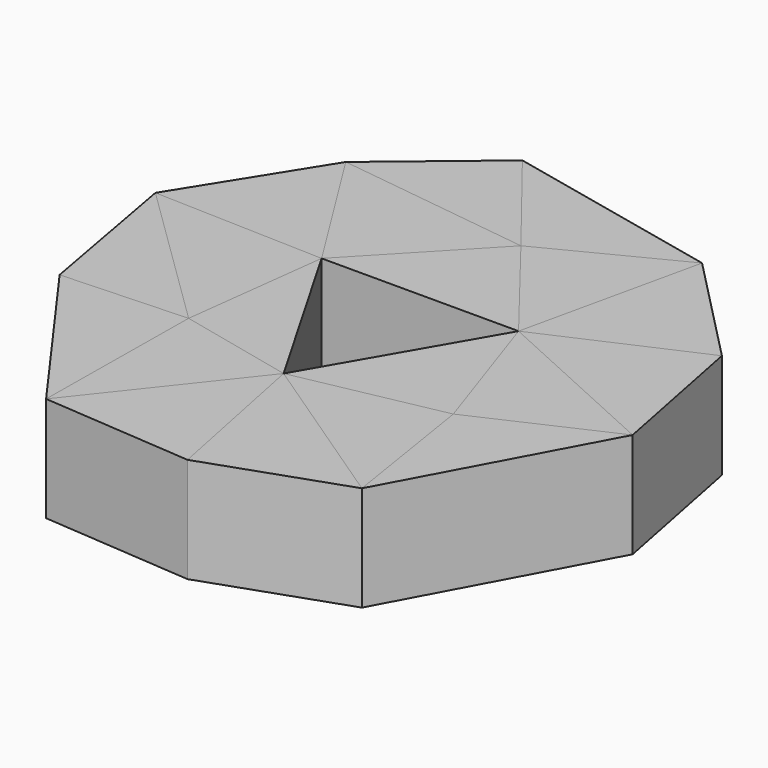
from build123d import *

# Parameters (mm, degrees)
F1_DEPTH = 25.4
F2_DEPTH = 25.4
F3_DEPTH = 25.4


with BuildPart() as f1:
    # F0 (on Top) → F1 (new body)
    with BuildSketch(Plane.XY):
        Polygon((-139.548727, -1.749934), (-98.295171, -3.080259), (-119.355322, 30.558523), align=None)
        Polygon((-102.588175, -37.905204), (-74.482671, -44.324719), (-98.295171, -3.080259), align=None)
        Polygon((-132.721425, -39.233236), (-103.023194, -80.44798), (-102.588175, -37.905204), align=None)
        Polygon((-66.603505, -83.22223), (-74.482671, -44.324719), (-103.023194, -80.44798), align=None)
        Polygon((-39.103412, -37.254637), (-74.482671, -44.324719), (-33.617825, -71.746143), align=None)
        Polygon((-7.314813, -22.789485), (-50.670171, -3.080259), (-39.103412, -37.254637), align=None)
        Polygon((-41.006373, 40.30653), (-50.670171, -3.080259), (-14.391694, 13.043573), align=None)
        Polygon((-93.722842, 51.894216), (-72.12382, 24.449037), (-41.006373, 40.30653), align=None)
        Polygon((-72.12382, 24.449037), (-98.295171, -3.080259), (-50.670171, -3.080259), align=None)
    extrude(amount=F1_DEPTH)


with BuildPart() as f2:
    # F0 (on Top) → F2 (new body)
    with BuildSketch(Plane.XY):
        Polygon((-93.722842, 51.894216), (-119.355322, 30.558523), (-72.12382, 24.449037), align=None)
        Polygon((-72.12382, 24.449037), (-50.670171, -3.080259), (-41.006373, 40.30653), align=None)
        Polygon((-14.391694, 13.043573), (-50.670171, -3.080259), (-7.314813, -22.789485), align=None)
        Polygon((-39.103412, -37.254637), (-33.617825, -71.746143), (-7.314813, -22.789485), align=None)
        Polygon((-50.670171, -3.080259), (-74.482671, -44.324719), (-39.103412, -37.254637), align=None)
        Polygon((-33.617825, -71.746143), (-74.482671, -44.324719), (-66.603505, -83.22223), align=None)
        Polygon((-103.023194, -80.44798), (-74.482671, -44.324719), (-102.588175, -37.905204), align=None)
        Polygon((-132.721425, -39.233236), (-102.588175, -37.905204), (-139.548727, -1.749934), align=None)
    extrude(amount=F2_DEPTH)


with BuildPart() as f3:
    # F0 (on Top) → F3 (new body)
    with BuildSketch(Plane.XY):
        Polygon((-102.588175, -37.905204), (-98.295171, -3.080259), (-139.548727, -1.749934), align=None)
        Polygon((-119.355322, 30.558523), (-98.295171, -3.080259), (-72.12382, 24.449037), align=None)
    extrude(amount=F3_DEPTH)


solid = Compound([f1.part, f2.part, f3.part])
